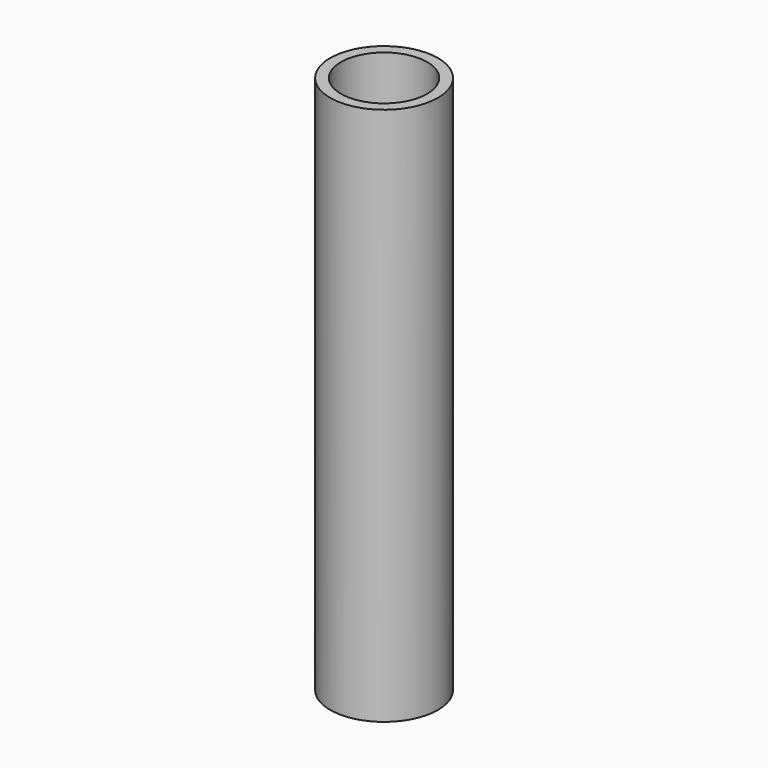
from build123d import *

# Parameters (mm, degrees)
F0_R     = 12.7
F1_DEPTH = 63.5
F2_T     = -2.54


with BuildPart() as f1:
    # F0 (on Top) → F1 (new body, symmetric)
    with BuildSketch(Plane.XY):
        Circle(F0_R)
    extrude(amount=F1_DEPTH, both=True)

    # F2
    f2_openings = [f1.faces().sort_by_distance(p)[0] for p in [
        (0, 0, 63.5),
    ]]
    offset(amount=F2_T, openings=f2_openings)


solid = f1.part
